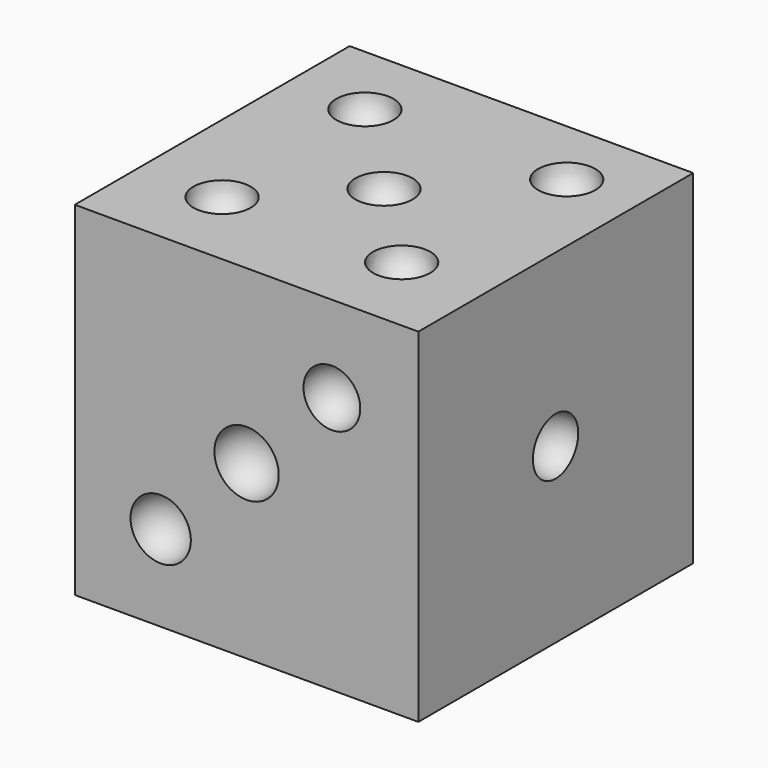
from build123d import *

# Parameters (mm, degrees)
F0_W     = 76.2
F0_H     = 76.2
F1_DEPTH = 76.2


with BuildPart() as f1:
    # F0 (on Front) → F1 (new body)
    with BuildSketch(Plane.XZ):
        with Locations((40.0694780931, 38.1)):
            Rectangle(F0_W, F0_H)
    extrude(amount=F1_DEPTH)

    # F2 (on face) → F3 (revolve, cut)
    with BuildSketch(Plane.YZ.offset(78.1694780931)):
        with BuildLine():
            Line((-38.1545338326, 44.7045695004), (-38.1765224432, 32.0052831112))
            ThreePointArc((-38.1765224432, 32.0052831112), (-31.8819485961, 38.3440463887), (-38.1545338326, 44.7045695004))
        make_face()
    revolve(axis=Axis((78.1694780931, -38.1659695387, 38.1), (0, -0.0017314814, -0.999998501)), mode=Mode.SUBTRACT)

    # F4 (on face) → F5 (revolve, cut)
    with BuildSketch(Plane(origin=(1.9694780931, 0, 0), x_dir=(0, -1, 0), z_dir=(-1, 0, 0))):
        with BuildLine():
            ThreePointArc((19.05, 54.3778086245), (25.4, 60.7278086245), (19.05, 67.0778086245))
            Line((19.05, 67.0778086245), (19.05, 54.3778086245))
        make_face()
        with BuildLine():
            Line((19.05, 44.45), (19.05, 31.75))
            ThreePointArc((19.05, 31.75), (25.4, 38.1), (19.05, 44.45))
        make_face()
        with BuildLine():
            Line((19.05, 22.5293082952), (19.05, 9.8293082952))
            ThreePointArc((19.05, 9.8293082952), (25.4, 16.1793082952), (19.05, 22.5293082952))
        make_face()
    revolve(axis=Axis((1.9694780931, -19.05, 60.7278086245), (0, 0, -1)), mode=Mode.SUBTRACT)

    # F4 (on face) → F6 (revolve, cut)
    with BuildSketch(Plane(origin=(1.9694780931, 0, 0), x_dir=(0, -1, 0), z_dir=(-1, 0, 0))):
        with BuildLine():
            ThreePointArc((57.15, 54.5994484961), (63.5, 60.9494484961), (57.15, 67.2994484961))
            Line((57.15, 67.2994484961), (57.15, 54.5994484961))
        make_face()
        with BuildLine():
            Line((57.15, 44.45), (57.15, 31.75))
            ThreePointArc((57.15, 31.75), (63.5, 38.1), (57.15, 44.45))
        make_face()
        with BuildLine():
            Line((57.15, 19.204793109), (57.15, 6.504793109))
            ThreePointArc((57.15, 6.504793109), (63.5, 12.854793109), (57.15, 19.204793109))
        make_face()
    revolve(axis=Axis((1.9694780931, -57.15, 60.9494484961), (0, 0, -1)), mode=Mode.SUBTRACT)

    # F7 (on face) → F8 (revolve, cut)
    with BuildSketch(Plane.XZ.offset(76.2)):
        with BuildLine():
            Line((21.0194780931, 19.05), (16.2879240141, 14.318445921))
            ThreePointArc((16.2879240141, 14.318445921), (25.7510321721, 14.318445921), (25.7510321721, 23.781554079))
            Line((25.7510321721, 23.781554079), (21.0194780931, 19.05))
        make_face()
        with BuildLine():
            Line((45.1180453631, 43.14856727), (40.0694780931, 38.1))
            Line((40.0694780931, 38.1), (35.0209108231, 33.05143273))
            ThreePointArc((35.0209108231, 33.05143273), (45.1180453631, 33.05143273), (45.1180453631, 43.14856727))
        make_face()
        with BuildLine():
            ThreePointArc((54.5395294358, 52.5700513428), (63.4429130549, 52.5700513428), (63.4429130549, 61.4734349618))
            Line((63.4429130549, 61.4734349618), (58.9912212454, 57.0217431523))
            Line((58.9912212454, 57.0217431523), (54.5395294358, 52.5700513428))
        make_face()
    revolve(axis=Axis((21.0194780931, -76.2, 19.05), (-0.7071067812, 0, -0.7071067812)), mode=Mode.SUBTRACT)

    # F9 (on face) → F10 (revolve, cut)
    with BuildSketch(Plane(origin=(0, 0, 0), x_dir=(-1, 0, 0), z_dir=(0, 1, 0))):
        with BuildLine():
            ThreePointArc((-22.7105524391, 49.1754754082), (-16.234281157, 55.6517466903), (-22.7105524391, 62.1280179723))
            Line((-22.7105524391, 62.1280179723), (-22.7105524391, 49.1754754082))
        make_face()
        with BuildLine():
            Line((-22.7105524391, 27.0366879377), (-22.7105524391, 13.5670205382))
            ThreePointArc((-22.7105524391, 13.5670205382), (-15.9757187393, 20.3018542379), (-22.7105524391, 27.0366879377))
        make_face()
    revolve(axis=Axis((22.7105524391, 0, 55.6517466903), (0, 0, -1)), mode=Mode.SUBTRACT)

    # F11 (on face) → F12 (revolve, cut)
    with BuildSketch(Plane(origin=(0, 0, 0), x_dir=(-1, 0, 0), z_dir=(0, 1, 0))):
        with BuildLine():
            ThreePointArc((-55.5651560426, 50.1335108817), (-49.2151560426, 56.4835108817), (-55.5651560426, 62.8335108817))
            Line((-55.5651560426, 62.8335108817), (-55.5651560426, 50.1335108817))
        make_face()
        with BuildLine():
            Line((-55.5651560426, 26.0280320257), (-55.5651560426, 13.3280320257))
            ThreePointArc((-55.5651560426, 13.3280320257), (-49.2151560426, 19.6780320257), (-55.5651560426, 26.0280320257))
        make_face()
    revolve(axis=Axis((55.5651560426, 0, 56.4835108817), (0, 0, -1)), mode=Mode.SUBTRACT)

    # F13 (on face) → F14 (revolve, cut)
    with BuildSketch(Plane(origin=(0, 0, 0), x_dir=(1, 0, 0), z_dir=(0, 0, -1))):
        with BuildLine():
            ThreePointArc((24.622106866, 53.5473712271), (24.622106866, 61.3923500636), (16.7771280295, 61.3923500636))
            Line((16.7771280295, 61.3923500636), (24.622106866, 53.5473712271))
        make_face()
        with BuildLine():
            Line((51.2488155394, 26.9206625537), (59.7872727679, 18.3822053252))
            ThreePointArc((59.7872727679, 18.3822053252), (59.7872727679, 26.9206625537), (51.2488155394, 26.9206625537))
        make_face()
    revolve(axis=Axis((20.6996174477, -57.4698606454, 0), (0.7071067812, 0.7071067812, 0)), mode=Mode.SUBTRACT)

    # F15 (on face) → F16 (revolve, cut)
    with BuildSketch(Plane.XY.offset(76.2)):
        with BuildLine():
            ThreePointArc((23.3597353042, -21.3902572111), (23.3597353042, -12.4100010901), (14.3794791832, -12.4100010901))
            Line((14.3794791832, -12.4100010901), (23.3597353042, -21.3902572111))
        make_face()
        with BuildLine():
            Line((35.5793500326, -33.6098719395), (44.5596061536, -42.5901280605))
            ThreePointArc((44.5596061536, -42.5901280605), (44.5596061536, -33.6098719395), (35.5793500326, -33.6098719395))
        make_face()
        with BuildLine():
            Line((55.1963627397, -53.2268846466), (64.1766188608, -62.2071407677))
            ThreePointArc((64.1766188608, -62.2071407677), (64.1766188608, -53.2268846466), (55.1963627397, -53.2268846466))
        make_face()
    revolve(axis=Axis((18.8696072437, -16.9001291506, 76.2), (0.7071067812, -0.7071067812, 0)), mode=Mode.SUBTRACT)

    # F15 (on face) → F17 (revolve, cut)
    with BuildSketch(Plane.XY.offset(76.2)):
        with BuildLine():
            Line((58.0951191491, -20.074358944), (67.0753752702, -11.0941028229))
            ThreePointArc((67.0753752702, -11.0941028229), (58.0951191491, -11.0941028229), (58.0951191491, -20.074358944))
        make_face()
        with BuildLine():
            Line((15.6297345652, -62.5397435279), (24.6099906863, -53.5594874068))
            ThreePointArc((24.6099906863, -53.5594874068), (15.6297345652, -53.5594874068), (15.6297345652, -62.5397435279))
        make_face()
    revolve(axis=Axis((62.5852472097, -15.5842308834, 76.2), (-0.7071067812, -0.7071067812, 0)), mode=Mode.SUBTRACT)


solid = f1.part
